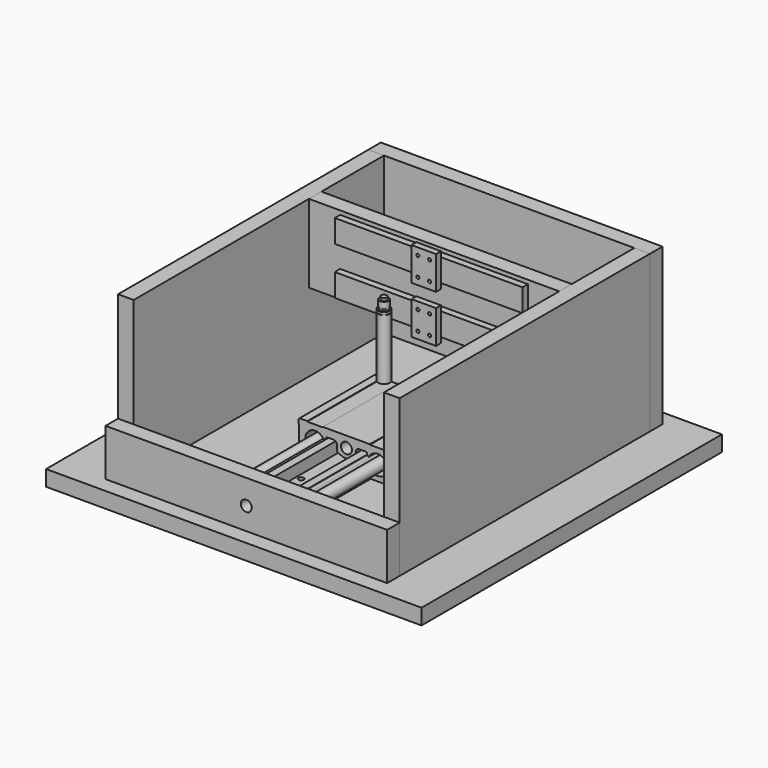
from build123d import *

# Parameters (mm, degrees)
F1_DEPTH      = 228.6
F1_DEPTH_BACK = 228.6
F2_SIZE       = 0.8128
F3_R          = 2.54
F5_D          = 8.636
F6_R          = 8.89
F7_DEPTH      = 76.2
F7_DEPTH_BACK = 76.2
F8_R          = 5.08
F9_R          = 2.54
F10_R         = 0.635
F11_SIZE      = 1.27
F12_W         = 609.6
F12_H         = 609.6
F12_R         = 4.318
F13_DEPTH     = 25.4
F15_W         = 508
F15_H         = 254
F16_DEPTH     = 25.4
F18_W         = 25.4
F18_H         = 76.2
F18_W_2       = 431.8
F18_R         = 8.89
F19_DEPTH     = 25.4
F20_W         = 25.4
F20_H         = 254
F20_W_2       = 431.8
F20_R         = 8.89
F21_DEPTH     = 25.4
F22_W         = 4.7625
F22_H         = 2.54
F22_W_2       = 8.89
F22_H_2       = 0.508
F22_W_3       = 7.5946
F22_H_3       = 1.27
F22_H_4       = 4.064
F25_W         = 406.4
F25_H         = 127
F25_W_2       = 304.8
F25_H_2       = 37.0332
F26_DEPTH     = 25.4
F27_DEPTH     = 10.9728
F28_W         = 40
F28_H         = 8.4834
F28_H_2       = 37.0332
F28_R         = 2.5
F29_DEPTH     = 10


with BuildPart() as f1:
    # F0 (on Front) → F1 (new body, two sides)
    with BuildSketch(Plane.XZ) as f1_sk:
        with BuildLine():
            Line((-33.401, 8.128), (-33.401, 0))
            Line((-33.401, 0), (33.401, 0))
            Line((33.401, 0), (33.401, 23.8230951188))
            Line((33.401, 23.8230951188), (42.4688, 23.8230951188))
            ThreePointArc((42.4688, 23.8230951188), (60.2488, 28.575), (42.4688, 33.3269048812))
            Line((42.4688, 33.3269048812), (33.401, 33.3269048812))
            Line((33.401, 33.3269048812), (33.401, 37.72408))
            Line((33.401, 37.72408), (20.574, 37.72408))
            Line((20.574, 37.72408), (20.574, 19.05))
            Line((20.574, 19.05), (-20.574, 19.05))
            Line((-20.574, 19.05), (-20.574, 37.72408))
            Line((-20.574, 37.72408), (-33.401, 37.72408))
            Line((-33.401, 37.72408), (-33.401, 33.3269048812))
            Line((-33.401, 33.3269048812), (-42.6212, 33.3269048812))
            ThreePointArc((-42.6212, 33.3269048812), (-60.4012, 28.575), (-42.6212, 23.8230951188))
            Line((-42.6212, 23.8230951188), (-32.131, 23.8230951188))
            Line((-32.131, 23.8230951188), (-32.131, 9.398))
            Line((-32.131, 9.398), (-33.401, 8.128))
        make_face()
    extrude(amount=F1_DEPTH)
    extrude(f1_sk.sketch, amount=-F1_DEPTH_BACK)

    # F2
    f2_edges = [f1.edges().sort_by_distance(p)[0] for p in [
        (-33.401, 0, 0),
    ]]
    chamfer(f2_edges, length=F2_SIZE)

    # F3
    f3_edges = [f1.edges().sort_by_distance(p)[0] for p in [
        (-32.131, 0, 23.823095),
        (-33.401, 0, 33.326905),
        (33.401, 0, 33.326905),
        (33.401, 0, 23.823095),
    ]]
    fillet(f3_edges, radius=F3_R)

    # F5 (through all)
    with Locations(Plane.XY.offset(19.05)):
        with Locations((-12.7, -152.4), (12.7, -152.4), (-12.7, 0), (12.7, 0), (-12.7, 152.4), (12.7, 152.4)):
            Hole(F5_D / 2)


with BuildPart() as f7:
    # F6 (on Front) → F7 (new body, two sides)
    with BuildSketch(Plane.XZ) as f7_sk:
        with BuildLine():
            Line((-63.5762, 53.975), (-77.5462, 53.975))
            Line((-77.5462, 53.975), (-77.5462, 46.355))
            Line((-77.5462, 46.355), (-76.7842, 46.355))
            Line((-76.7842, 46.355), (-76.7842, 4.953))
            Line((-76.7842, 4.953), (-33.7312, 4.953))
            Line((-33.7312, 4.953), (-33.7312, 19.6296778315))
            Line((-33.7312, 19.6296778315), (-36.3265221685, 22.225))
            ThreePointArc((-36.3265221685, 22.225), (-66.7512, 28.575), (-36.3265221685, 34.925))
            Line((-36.3265221685, 34.925), (-33.7312, 37.5203221685))
            Line((-33.7312, 37.5203221685), (-33.7312, 41.275))
            Line((-33.7312, 41.275), (-15.6337, 41.275))
            Line((-15.6337, 41.275), (-15.6337, 26.5310464443))
            ThreePointArc((-15.6337, 26.5310464443), (-0.0762, 21.2089993715), (15.4813, 26.5310464443))
            Line((15.4813, 26.5310464443), (15.4813, 41.275))
            Line((15.4813, 41.275), (33.5788, 41.275))
            Line((33.5788, 41.275), (33.5788, 37.5203221685))
            Line((33.5788, 37.5203221685), (36.1741221685, 34.925))
            ThreePointArc((36.1741221685, 34.925), (66.5988, 28.575), (36.1741221685, 22.225))
            Line((36.1741221685, 22.225), (33.5788, 19.6296778315))
            Line((33.5788, 19.6296778315), (33.5788, 4.953))
            Line((33.5788, 4.953), (76.6318, 4.953))
            Line((76.6318, 4.953), (76.6318, 46.355))
            Line((76.6318, 46.355), (77.3938, 46.355))
            Line((77.3938, 46.355), (77.3938, 53.975))
            Line((77.3938, 53.975), (63.4238, 53.975))
            Line((63.4238, 53.975), (63.4238, 53.213))
            Line((63.4238, 53.213), (38.0238, 53.213))
            Line((38.0238, 53.213), (38.0238, 53.975))
            Line((38.0238, 53.975), (-38.1762, 53.975))
            Line((-38.1762, 53.975), (-38.1762, 53.213))
            Line((-38.1762, 53.213), (-63.5762, 53.213))
            Line((-63.5762, 53.213), (-63.5762, 53.975))
        make_face()
        with Locations((-0.0762, 36.195)):
            Circle(F6_R, mode=Mode.SUBTRACT)
    extrude(amount=F7_DEPTH)
    extrude(f7_sk.sketch, amount=-F7_DEPTH_BACK)

    # F8
    f8_edges = [f7.edges().sort_by_distance(p)[0] for p in [
        (-15.6337, 0, 41.275),
        (15.4813, 0, 41.275),
    ]]
    fillet(f8_edges, radius=F8_R)

    # F9
    f9_edges = [f7.edges().sort_by_distance(p)[0] for p in [
        (-33.7312, 0, 41.275),
        (33.5788, 0, 41.275),
    ]]
    fillet(f9_edges, radius=F9_R)

    # F10
    f10_edges = [f7.edges().sort_by_distance(p)[0] for p in [
        (-36.326522, 0, 34.925),
        (-36.326522, 0, 22.225),
        (36.174122, 0, 34.925),
        (36.174122, 0, 22.225),
        (-33.7312, 0, 37.520322),
        (-33.7312, 0, 19.629678),
        (33.5788, 0, 37.520322),
        (33.5788, 0, 19.629678),
    ]]
    fillet(f10_edges, radius=F10_R)

    # F11
    f11_edges = [f7.edges().sort_by_distance(p)[0] for p in [
        (-76.7842, 0, 4.953),
        (-33.7312, 0, 4.953),
        (33.5788, 0, 4.953),
        (76.6318, 0, 4.953),
        (-77.5462, 0, 53.975),
        (77.3938, 0, 53.975),
    ]]
    chamfer(f11_edges, length=F11_SIZE)


with BuildPart() as f13:
    # F12 (on Top) → F13 (new body)
    with BuildSketch(Plane.XY):
        Rectangle(F12_W, F12_H)
        with Locations((-12.7, -152.4)):
            Circle(F12_R, mode=Mode.SUBTRACT)
        with Locations((12.7, -152.4)):
            Circle(F12_R, mode=Mode.SUBTRACT)
        with Locations((-12.7, 0)):
            Circle(F12_R, mode=Mode.SUBTRACT)
        with Locations((-12.7, 152.4)):
            Circle(F12_R, mode=Mode.SUBTRACT)
        with Locations((12.7, 0)):
            Circle(F12_R, mode=Mode.SUBTRACT)
        with Locations((12.7, 152.4)):
            Circle(F12_R, mode=Mode.SUBTRACT)
    extrude(amount=-F13_DEPTH)


with BuildPart() as f16:
    # F15 (on offset) → F16 (new body)
    with BuildSketch(Plane.YZ.offset(203.2)):
        with Locations((0, 127)):
            Rectangle(F15_W, F15_H)
    extrude(amount=F16_DEPTH)


with BuildPart() as f17_1:
    # F17: instance of F16
    add(f16.part.mirror(Plane.YZ))


with BuildPart() as f19:
    # F18 (on face) → F19 (new body)
    with BuildSketch(Plane.XZ.offset(254)):
        with Locations((-215.9, 38.1)):
            Rectangle(F18_W, F18_H)
        with Locations((12.7, 38.1)):
            Rectangle(F18_W_2, F18_H)
        with Locations((-0.0762, 36.195)):
            Circle(F18_R, mode=Mode.SUBTRACT)
    extrude(amount=F19_DEPTH)


with BuildPart() as f21:
    # F20 (on face) → F21 (new body)
    with BuildSketch(Plane(origin=(0, 254, 0), x_dir=(-1, 0, 0), z_dir=(0, 1, 0))):
        with Locations((-215.9, 127)):
            Rectangle(F20_W, F20_H)
        with Locations((12.7, 127)):
            Rectangle(F20_W_2, F20_H)
        with Locations((0.0762, 36.195)):
            Circle(F20_R, mode=Mode.SUBTRACT)
    extrude(amount=F21_DEPTH)


with BuildPart() as f23:
    # F22 (on Front) → F23 (revolve)
    with BuildSketch(Plane.XZ):
        with Locations((2.38125, 100.33)):
            Rectangle(F22_W, F22_H)
        Polygon((4.7625, 101.6), (9.525, 101.6), (9.525, 200.152), (8.89, 200.152), (0, 200.152), (0, 101.6), align=None)
        with Locations((4.445, 200.406)):
            Rectangle(F22_W_2, F22_H_2)
        Polygon((0, 200.66), (8.89, 200.66), (9.525, 200.66), (9.525, 204.343), (7.5946, 204.343), (0, 204.343), align=None)
        with Locations((3.7973, 204.978)):
            Rectangle(F22_W_3, F22_H_3)
        with BuildLine():
            Line((0, 208.2038), (0, 205.613))
            Line((0, 205.613), (7.5946, 205.613))
            ThreePointArc((7.5946, 205.613), (6.2992, 206.9084), (7.5946, 208.2038))
            Line((7.5946, 208.2038), (0, 208.2038))
        make_face()
        Polygon((0, 217.9828), (0, 208.2038), (7.5946, 208.2038), (7.5946, 217.9828), (4.7625, 217.9828), align=None)
        with Locations((2.38125, 220.0148)):
            Rectangle(F22_W, F22_H_4)
    revolve(axis=Axis((0, 0, 160.5534), (0, 0, 1)))


with BuildPart() as f26:
    # F25 (on offset) → F26 (new body)
    with BuildSketch(Plane.XZ.offset(-101.6)):
        with Locations((0, 190.5)):
            Rectangle(F25_W, F25_H)
        with Locations((0, 151.8666)):
            Rectangle(F25_W_2, F25_H_2, mode=Mode.SUBTRACT)
        with Locations((0, 229.1334)):
            Rectangle(F25_W_2, F25_H_2, mode=Mode.SUBTRACT)
        with Locations((0, 190.5)):
            Rectangle(F25_W, F25_H)
        with Locations((0, 151.8666)):
            Rectangle(F25_W_2, F25_H_2, mode=Mode.SUBTRACT)
        with Locations((0, 229.1334)):
            Rectangle(F25_W_2, F25_H_2, mode=Mode.SUBTRACT)
        with Locations((0, 190.5)):
            Rectangle(F25_W, F25_H)
        with Locations((0, 151.8666)):
            Rectangle(F25_W_2, F25_H_2, mode=Mode.SUBTRACT)
        with Locations((0, 229.1334)):
            Rectangle(F25_W_2, F25_H_2, mode=Mode.SUBTRACT)
        with Locations((0, 229.1334)):
            Rectangle(F25_W_2, F25_H_2)
        with Locations((0, 151.8666)):
            Rectangle(F25_W_2, F25_H_2)
    extrude(amount=-F26_DEPTH)

    # F25 (on offset) → F27 (join)
    with BuildSketch(Plane.XZ.offset(-101.6)):
        with Locations((0, 229.1334)):
            Rectangle(F25_W_2, F25_H_2)
        with Locations((0, 151.8666)):
            Rectangle(F25_W_2, F25_H_2)
    extrude(amount=F27_DEPTH)


with BuildPart() as f29:
    # F28 (on face) → F29 (new body)
    with BuildSketch(Plane.XZ.offset(-90.6272)):
        with Locations((0, 251.8917)):
            Rectangle(F28_W, F28_H)
        with Locations((0, 229.1334)):
            Rectangle(F28_W, F28_H_2)
        with Locations((-9.5, 213.6334)):
            Circle(F28_R, mode=Mode.SUBTRACT)
        with Locations((9.5, 213.6334)):
            Circle(F28_R, mode=Mode.SUBTRACT)
        with Locations((-9.5, 244.6334)):
            Circle(F28_R, mode=Mode.SUBTRACT)
        with Locations((9.5, 244.6334)):
            Circle(F28_R, mode=Mode.SUBTRACT)
        with Locations((0, 206.3751)):
            Rectangle(F28_W, F28_H)
    extrude(amount=F29_DEPTH)


with BuildPart() as f31_1:
    # F31: instance of F29
    add(f29.part.mirror(Plane(origin=(0, 96.1136, 190.5), x_dir=(1, 0, 0), z_dir=(0, 0, -1))))


solid = Compound([f1.part, f7.part, f13.part, f16.part, f17_1.part, f19.part, f21.part, f23.part, f26.part, f29.part, f31_1.part])
